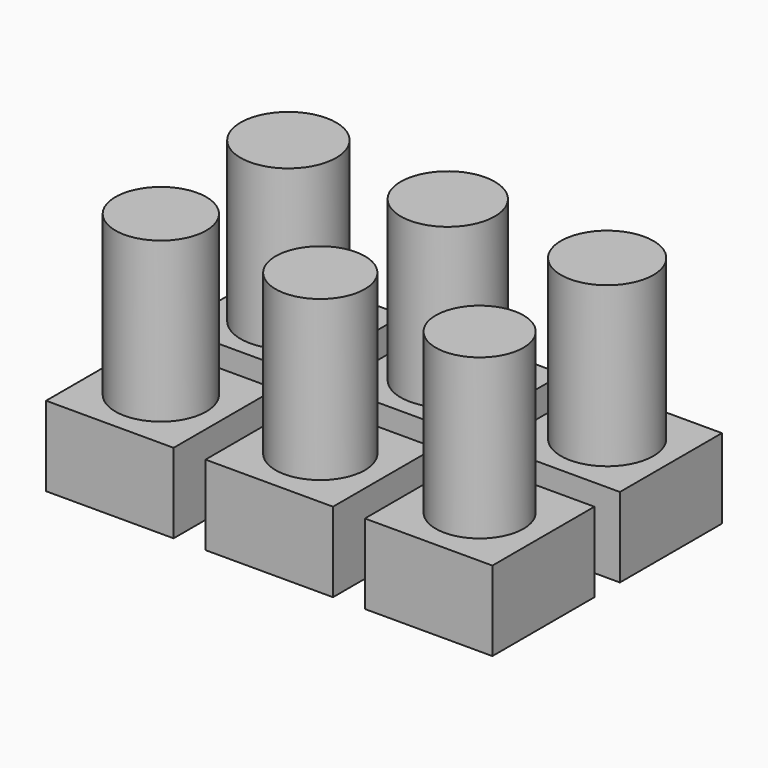
from build123d import *

# Parameters (mm, degrees)
F0_W     = 8
F0_H     = 8
F1_DEPTH = 5
F2_R     = 3
F2_R_2   = 2.95
F2_R_3   = 2.9
F2_R_4   = 2.85
F2_R_5   = 2.8
F2_R_6   = 2.75
F3_DEPTH = 10


with BuildPart() as f1:
    # F0 (on Top) → F1 (new body)
    with BuildSketch(Plane.XY):
        with Locations((4, 4)):
            Rectangle(F0_W, F0_H)
        with Locations((-6, 4)):
            Rectangle(F0_W, F0_H)
        with Locations((-16, 4)):
            Rectangle(F0_W, F0_H)
        with Locations((4, 14)):
            Rectangle(F0_W, F0_H)
        with Locations((-6, 14)):
            Rectangle(F0_W, F0_H)
        with Locations((-16, 14)):
            Rectangle(F0_W, F0_H)
    extrude(amount=F1_DEPTH)


with BuildPart() as f3:
    # F2 (on face) → F3 (new body)
    with BuildSketch(Plane.XY.offset(5)):
        with Locations((-16, 14)):
            Circle(F2_R)
        with Locations((-6, 14)):
            Circle(F2_R_2)
        with Locations((4, 14)):
            Circle(F2_R_3)
        with Locations((-16, 4)):
            Circle(F2_R_4)
        with Locations((-6, 4)):
            Circle(F2_R_5)
        with Locations((4, 4)):
            Circle(F2_R_6)
    extrude(amount=F3_DEPTH)


solid = Compound([f1.part, f3.part])
